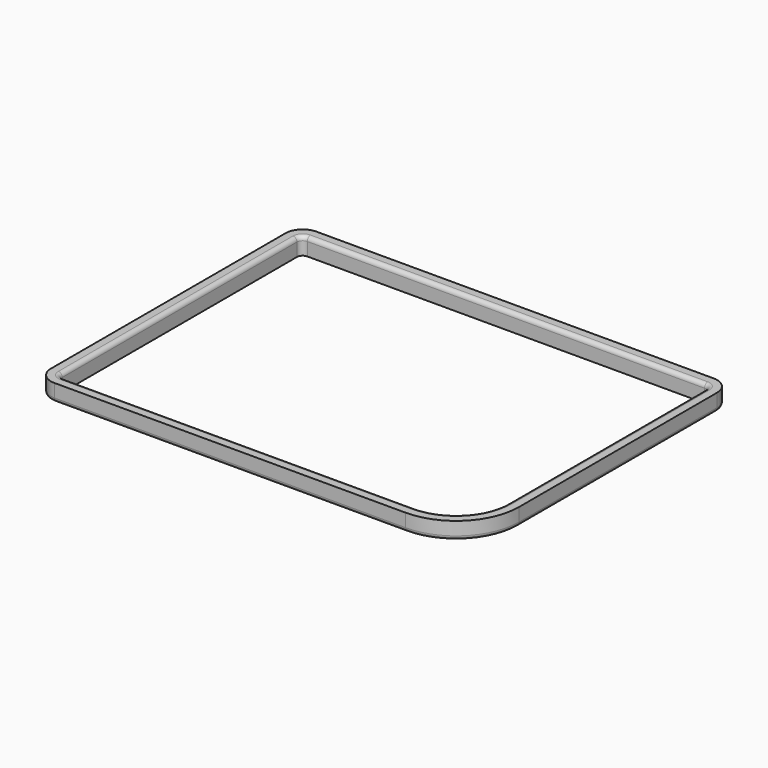
from build123d import *

# Parameters (mm, degrees)
F1_DEPTH = 3
F2_R     = 0.7


with BuildPart() as f1:
    # F0 (on Top) → F1 (new body)
    with BuildSketch(Plane.XY):
        with BuildLine():
            ThreePointArc((37.675, 25.6), (36.79632, 27.72132), (34.675, 28.6))
            Line((34.675, 28.6), (-34.675, 28.6))
            ThreePointArc((-34.675, 28.6), (-36.79632, 27.72132), (-37.675, 25.6))
            Line((-37.675, 25.6), (-37.675, -25.6))
            ThreePointArc((-37.675, -25.6), (-36.79632, -27.72132), (-34.675, -28.6))
            Line((-34.675, -28.6), (26.675, -28.6))
            ThreePointArc((26.675, -28.6), (34.453175, -25.378175), (37.675, -17.6))
            Line((37.675, -17.6), (37.675, 25.6))
        make_face()
        with BuildLine():
            ThreePointArc((34.675, 26.6), (35.382107, 26.307107), (35.675, 25.6))
            Line((35.675, 25.6), (35.675, -17.6))
            ThreePointArc((35.675, -17.6), (33.038961, -23.963961), (26.675, -26.6))
            Line((26.675, -26.6), (-34.675, -26.6))
            ThreePointArc((-34.675, -26.6), (-35.382107, -26.307107), (-35.675, -25.6))
            Line((-35.675, -25.6), (-35.675, 25.6))
            ThreePointArc((-35.675, 25.6), (-35.382107, 26.307107), (-34.675, 26.6))
            Line((-34.675, 26.6), (34.675, 26.6))
        make_face(mode=Mode.SUBTRACT)
    extrude(amount=F1_DEPTH)

    # F2
    f2_edges = [f1.edges().sort_by_distance(p)[0] for p in [
        (-37.675, 0, 0),
        (0, 26.6, 3),
        (-35.675, 0, 3),
        (35.675, 4, 3),
    ]]
    fillet(f2_edges, radius=F2_R)


solid = f1.part
